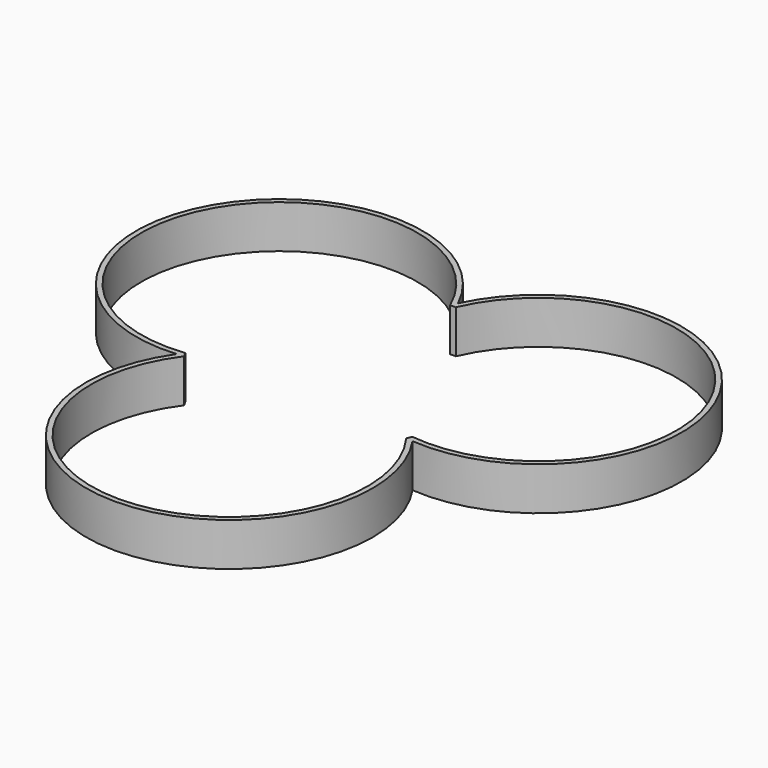
from build123d import *

# Parameters (mm, degrees)
F1_DEPTH = 25
F2_SCALE = 0.7


with BuildPart() as f1:
    # F0 (on Top) → F1 (new body)
    with BuildSketch(Plane.XY):
        with BuildLine():
            ThreePointArc((0, 0), (68.2896086367, -130.1755164492), (136.5792172734, 0))
            ThreePointArc((136.5792172734, 0), (215.1697171508, 124.2282941185), (68.2896086367, 118.2810717877))
            ThreePointArc((68.2896086367, 118.2810717877), (-78.5904998774, 124.2282941185), (0, 0))
        make_face()
        with BuildLine():
            ThreePointArc((2.4008847485, 3.2488335792), (-76.0030084536, 122.7099551242), (66.6596086367, 114.6162714767))
            Line((66.6596086367, 114.6162714767), (69.9196086367, 114.6162714767))
            ThreePointArc((69.9196086367, 114.6162714767), (212.674297247, 122.549958906), (133.8116395456, 3.2917275895))
            Line((133.8116395456, 3.2917275895), (132.5904071042, 0.4207787473))
            ThreePointArc((132.5904071042, 0.4207787473), (68.2896086367, -127.1755164492), (3.9888101691, 0.4207787473))
            Line((3.9888101691, 0.4207787473), (2.4008847485, 3.2488335792))
        make_face(mode=Mode.SUBTRACT)
    extrude(amount=F1_DEPTH)


with BuildPart() as f1_1:
    # F2: moved
    add(f1.part.scale(F2_SCALE))


solid = f1_1.part
